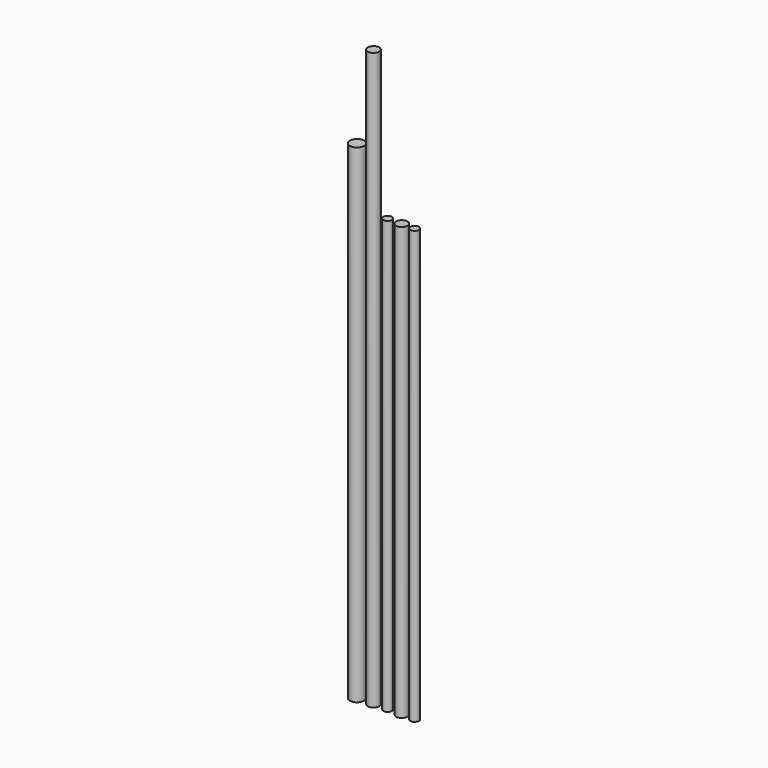
from build123d import *

# Parameters (mm, degrees)
F0_R     = 5
F1_DEPTH = 339
F0_R_2   = 4
F2_DEPTH = 300
F0_R_3   = 3
F3_DEPTH = 300
F4_DEPTH = 400
F5_DEPTH = 300


with BuildPart() as f1:
    # F0 (on Top) → F1 (new body)
    with BuildSketch(Plane.XY):
        Circle(F0_R)
    extrude(amount=F1_DEPTH)


with BuildPart() as f2:
    # F0 (on Top) → F2 (new body)
    with BuildSketch(Plane.XY):
        with Locations((31.010034, 0)):
            Circle(F0_R_2)
    extrude(amount=F2_DEPTH)


with BuildPart() as f3:
    # F0 (on Top) → F3 (new body)
    with BuildSketch(Plane.XY):
        with Locations((39.985366, 0)):
            Circle(F0_R_3)
    extrude(amount=F3_DEPTH)


with BuildPart() as f4:
    # F0 (on Top) → F4 (new body)
    with BuildSketch(Plane.XY):
        with Locations((11.451601, 0)):
            Circle(F0_R_2)
    extrude(amount=F4_DEPTH)


with BuildPart() as f5:
    # F0 (on Top) → F5 (new body)
    with BuildSketch(Plane.XY):
        with Locations((21.265149, 0)):
            Circle(F0_R_3)
    extrude(amount=F5_DEPTH)


solid = Compound([f1.part, f2.part, f3.part, f4.part, f5.part])
